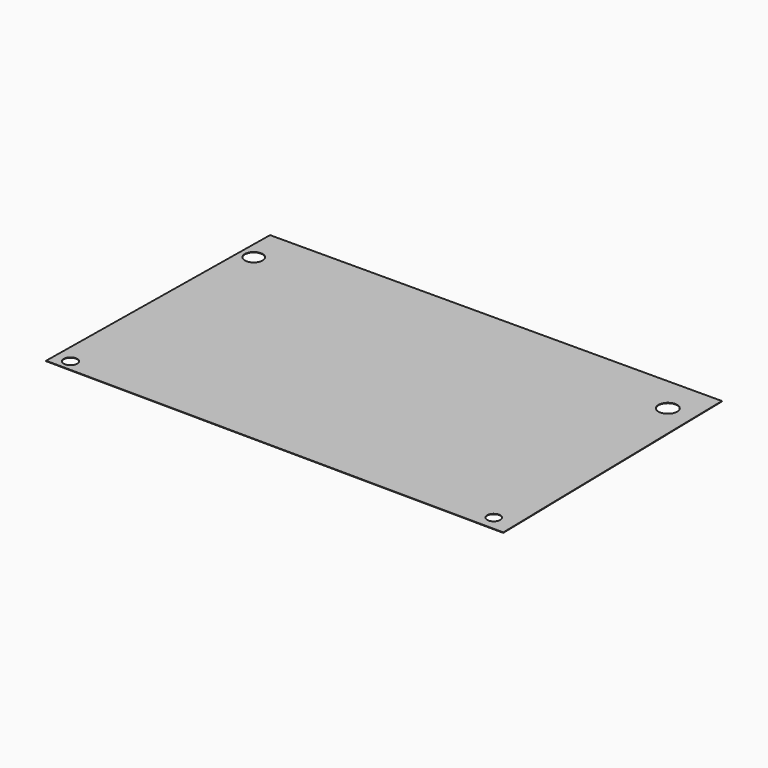
from build123d import *

# Parameters (mm, degrees)
F0_R     = 1.48473
F0_R_2   = 1.432773
F0_R_3   = 1.966661
F0_R_4   = 2.064399
F1_DEPTH = 0.1


with BuildPart() as f1:
    # F0 (on Top) → F1 (new body)
    with BuildSketch(Plane.XY):
        Polygon((42.507875, 33.288303), (-57.307694, 32.98077), (-58.160786, -27.940061), (43.717057, -28.748617), align=None)
        with Locations((-54.746359, -25.4485)):
            Circle(F0_R, mode=Mode.SUBTRACT)
        with Locations((38.963641, -25.4485)):
            Circle(F0_R_2, mode=Mode.SUBTRACT)
        with Locations((-54.336468, 24.759827)):
            Circle(F0_R_3, mode=Mode.SUBTRACT)
        with Locations((36.901752, 25.329655)):
            Circle(F0_R_4, mode=Mode.SUBTRACT)
    extrude(amount=F1_DEPTH)


solid = f1.part
